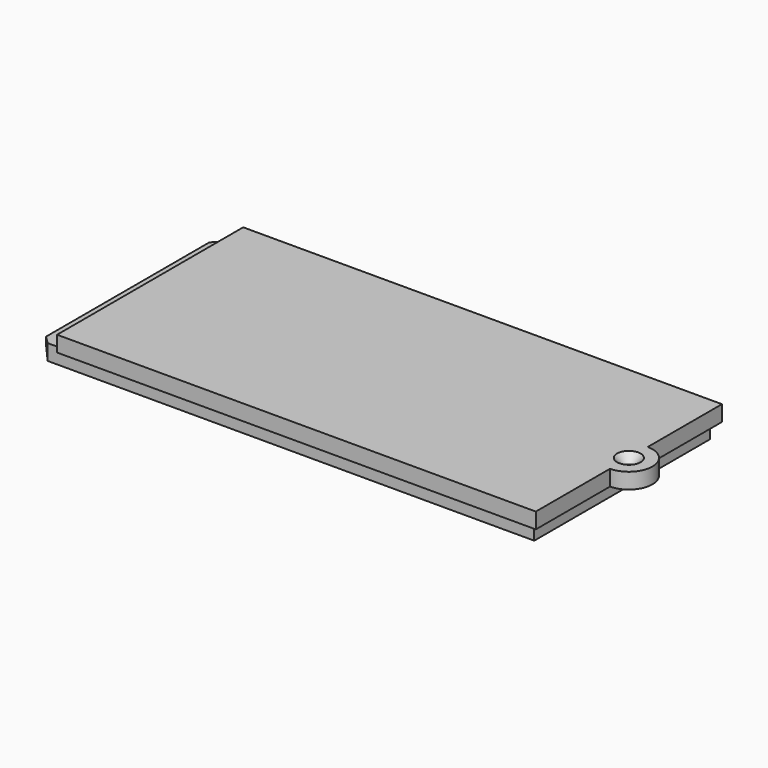
from build123d import *

# Parameters (mm, degrees)
PAD_DEPTH       = 2
SKETCH001_R     = 0.5
POCKET_DEPTH    = 5
SKETCH002_W     = 59
SKETCH002_H     = 28
PAD001_DEPTH    = 2
SKETCH003_W     = 28
SKETCH003_H     = 2
PAD002_DEPTH    = 4
CHAMFER_SIZE    = 1
CHAMFER001_SIZE = 1


with BuildPart() as part:
    # Sketch → Pad (new body)
    with BuildSketch(Plane.XY):
        with BuildLine():
            Line((0, 0), (61, 0))
            Line((61, 0), (61, 11.82))
            ThreePointArc((61, 11.82), (64, 14.82), (61, 17.82))
            Line((61, 29.64), (61, 17.82))
            Line((61, 29.64), (0, 29.64))
            Line((0, 29.64), (0, 0))
        make_face()
    extrude(amount=PAD_DEPTH)

    # Sketch001 (on Face7 of Pad) → Pocket (cut)
    with BuildSketch(Plane(origin=(0, 0, 0), x_dir=(1, 0, 0), z_dir=(0, 0, -1))):
        with Locations((61, -14.82)):
            Circle(SKETCH001_R)
    extrude(amount=-POCKET_DEPTH, mode=Mode.SUBTRACT)

    # Sketch002 (on Face4 of Pocket) → Pad001 (join)
    with BuildSketch(Plane(origin=(0, 0, 0), x_dir=(1, 0, 0), z_dir=(0, 0, -1))):
        with Locations((30.5, -15)):
            Rectangle(SKETCH002_W, SKETCH002_H)
    extrude(amount=PAD001_DEPTH)

    # Sketch003 (on Face13 of Pad001) → Pad002 (join)
    with BuildSketch(Plane(origin=(1, 0, 0), x_dir=(0, -1, 0), z_dir=(-1, 0, 0))):
        with Locations((-15, -1)):
            Rectangle(SKETCH003_W, SKETCH003_H)
    extrude(amount=PAD002_DEPTH)

    # Chamfer
    chamfer_edges = [part.edges().sort_by_distance(p)[0] for p in [
        (-3, 1, -1),
        (-3, 29, -1),
        (-3, 15, -2),
    ]]
    chamfer(chamfer_edges, length=CHAMFER_SIZE)

    # Chamfer001
    chamfer001_edges = [part.edges().sort_by_distance(p)[0] for p in [
        (60.5, 14.82, 2),
    ]]
    chamfer(chamfer001_edges, length=CHAMFER001_SIZE)


solid = part.part
